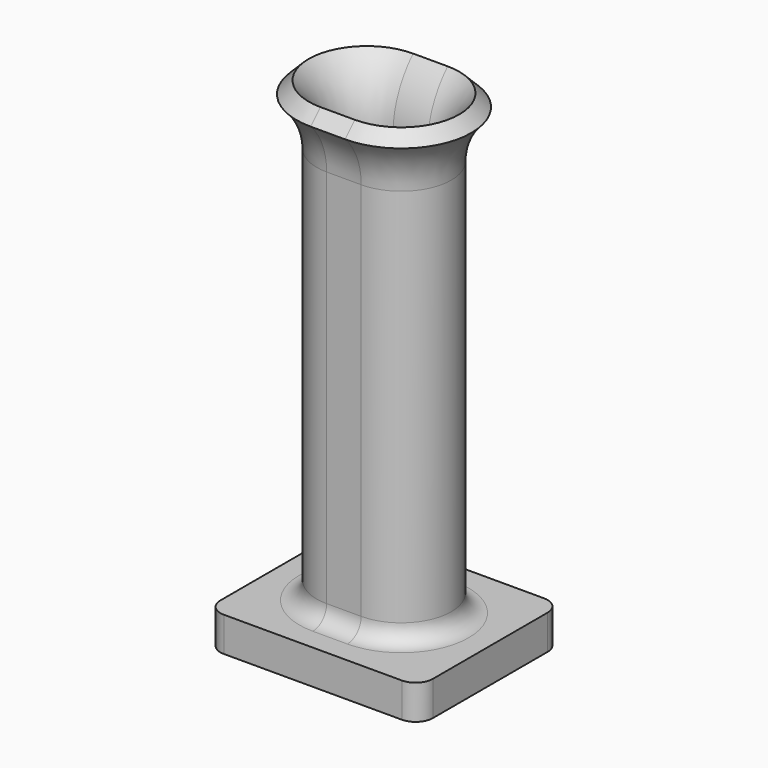
from build123d import *

# Parameters (mm, degrees)
F0_W     = 12.3
F0_H     = 10.3
F1_DEPTH = 2
F2_DEPTH = 25
F3_R     = 1


with BuildPart() as f1:
    # F0 (on Top) → F1 (new body)
    with BuildSketch(Plane.XY):
        Rectangle(F0_W, F0_H)
        with BuildLine():
            ThreePointArc((1, 2.9), (3.9, 0), (1, -2.9))
            Line((1, -2.9), (-1, -2.9))
            ThreePointArc((-1, -2.9), (-3.9, 0), (-1, 2.9))
            Line((-1, 2.9), (1, 2.9))
        make_face(mode=Mode.SUBTRACT)
    extrude(amount=F1_DEPTH)

    # F0 (on Top) → F2 (join)
    with BuildSketch(Plane.XY):
        with BuildLine():
            Line((-1, -2.9), (1, -2.9))
            ThreePointArc((1, -2.9), (3.9, 0), (1, 2.9))
            Line((1, 2.9), (-1, 2.9))
            ThreePointArc((-1, 2.9), (-3.9, 0), (-1, -2.9))
        make_face()
        with BuildLine():
            ThreePointArc((-1, -1.9), (-2.9, 0), (-1, 1.9))
            Line((-1, 1.9), (1, 1.9))
            ThreePointArc((1, 1.9), (2.9, 0), (1, -1.9))
            Line((1, -1.9), (-1, -1.9))
        make_face(mode=Mode.SUBTRACT)
    extrude(amount=F2_DEPTH)

    # F3
    f3_edges = [f1.edges().sort_by_distance(p)[0] for p in [
        (-3.9, 0, 2),
        (-6.15, 5.15, 1),
        (6.15, 5.15, 1),
        (6.15, -5.15, 1),
        (-6.15, -5.15, 1),
        (2.9, 0, 0),
    ]]
    fillet(f3_edges, radius=F3_R)

    # F5: sweep along a path in F5_path
    with BuildLine(Plane(origin=(-1, 1.9, 25), x_dir=(0, -1, 0), z_dir=(0, 0, -1))) as f5_path:
        Line((0, 0), (0, -2))
        ThreePointArc((0, -2), (1.9, -3.9), (3.8, -2))
        Line((3.8, -2), (3.8, 0))
        ThreePointArc((3.8, 0), (1.9, 1.9), (0, 0))
    # F4 (on Front) → F5 (sweep)
    with BuildSketch(Plane.XZ):
        with BuildLine():
            ThreePointArc((4.3550781059, 28.4958062232), (3.2782925097, 26.8932718666), (2.9, 25))
            Line((2.9, 25), (3.9, 25))
            ThreePointArc((3.9, 25), (4.201510745, 26.5089958069), (5.0597419257, 27.7862648917))
            Line((5.0597419257, 27.7862648917), (4.3550781059, 28.4958062232))
        make_face()
    sweep(path=f5_path.line)


solid = f1.part
